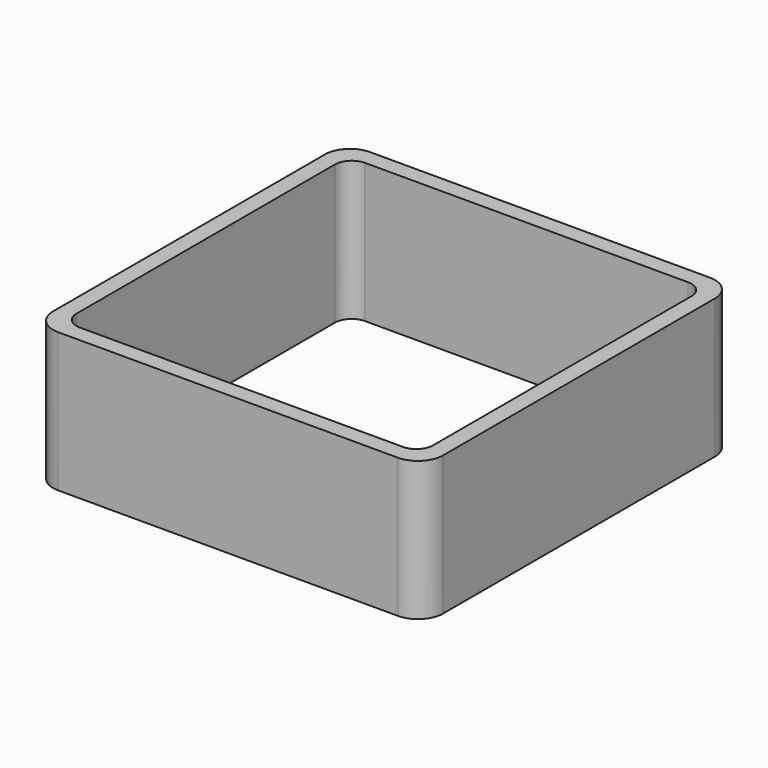
from build123d import *

# Parameters (mm, degrees)
EXTRUDE_DEPTH = 50


with BuildPart() as part:
    # Sketch → Extrude (new body)
    with BuildSketch(Plane.XY):
        with BuildLine():
            Line((-61, 70), (61, 70))
            ThreePointArc((70, 61), (67.363961, 67.363961), (61, 70))
            Line((70, 61), (70, -61))
            ThreePointArc((61, -70), (67.363961, -67.363961), (70, -61))
            Line((61, -70), (-61, -70))
            ThreePointArc((-70, -61), (-67.363961, -67.363961), (-61, -70))
            Line((-70, -61), (-70, 61))
            ThreePointArc((-61, 70), (-67.363961, 67.363961), (-70, 61))
        make_face()
        with BuildLine():
            Line((-58, 64), (58, 64))
            ThreePointArc((64, 58), (62.242641, 62.242641), (58, 64))
            Line((64, 58), (64, -58))
            ThreePointArc((58, -64), (62.242641, -62.242641), (64, -58))
            Line((58, -64), (-58, -64))
            ThreePointArc((-64, -58), (-62.242641, -62.242641), (-58, -64))
            Line((-64, -58), (-64, 58))
            ThreePointArc((-58, 64), (-62.242641, 62.242641), (-64, 58))
        make_face(mode=Mode.SUBTRACT)
    extrude(amount=EXTRUDE_DEPTH)


solid = part.part
